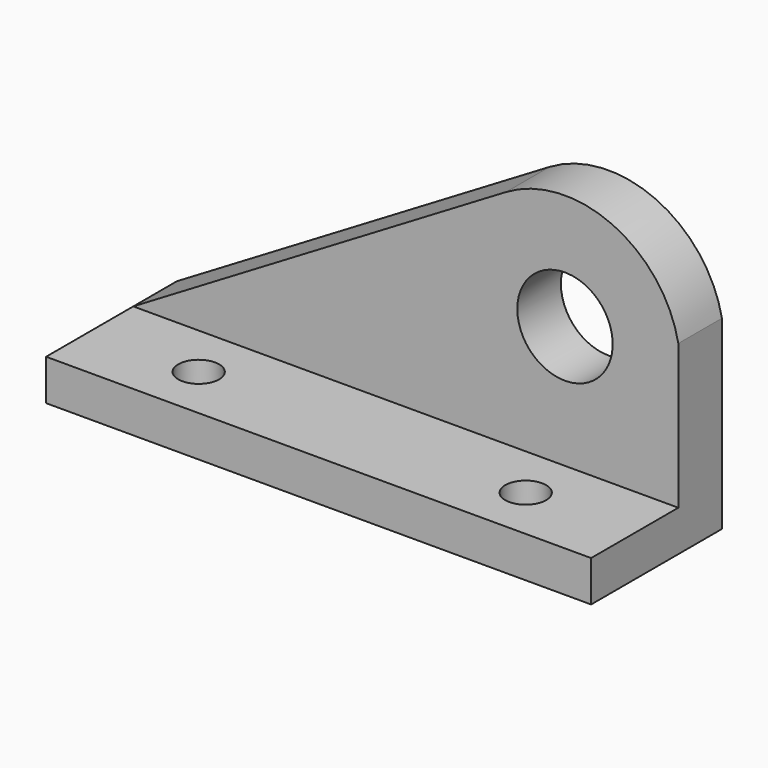
from build123d import *

# Parameters (mm, degrees)
F0_W           = 127
F0_H           = 9.525
F1_DEPTH       = 38.1
F2_DEPTH       = 12.7
F3_D           = 22.225
F3_CBORE_D     = 22.225
F3_CBORE_DEPTH = 22.225
F5_D           = 9.525
F5_CBORE_D     = 9.525
F5_CBORE_DEPTH = 9.525
F6_D           = 9.525
F6_CBORE_D     = 9.525
F6_CBORE_DEPTH = 9.525


with BuildPart() as f1:
    # F0 (on Front) → F1 (new body)
    with BuildSketch(Plane.XZ):
        with Locations((63.5, 4.7625)):
            Rectangle(F0_W, F0_H)
    extrude(amount=F1_DEPTH)

    # F0 (on Front) → F2 (join)
    with BuildSketch(Plane.XZ):
        with BuildLine():
            Line((86.8315583768, 61.2163306665), (0, 9.525))
            Line((0, 9.525), (127, 9.525))
            Line((127, 9.525), (127, 32.9619213127))
            Line((127, 32.9619213127), (127, 43.2380786873))
            ThreePointArc((127, 43.2380786873), (111.5830167561, 62.6551183584), (86.8315583768, 61.2163306665))
        make_face()
    extrude(amount=F2_DEPTH)

    # F3 (through all)
    with Locations(Plane(origin=(0, 0, 0), x_dir=(1, 0, 0), z_dir=(0, 1, 0))):
        with Locations((100.5928441882, -38.1)):
            CounterBoreHole(F3_D / 2, F3_CBORE_D / 2, F3_CBORE_DEPTH)

    # F5 (through all)
    with Locations(Plane.XY.offset(9.525)):
        with Locations((25.4, -25.4)):
            CounterBoreHole(F5_D / 2, F5_CBORE_D / 2, F5_CBORE_DEPTH)

    # F6 (through all)
    with Locations(Plane.XY.offset(9.525)):
        with Locations((101.6, -25.4)):
            CounterBoreHole(F6_D / 2, F6_CBORE_D / 2, F6_CBORE_DEPTH)


solid = f1.part
